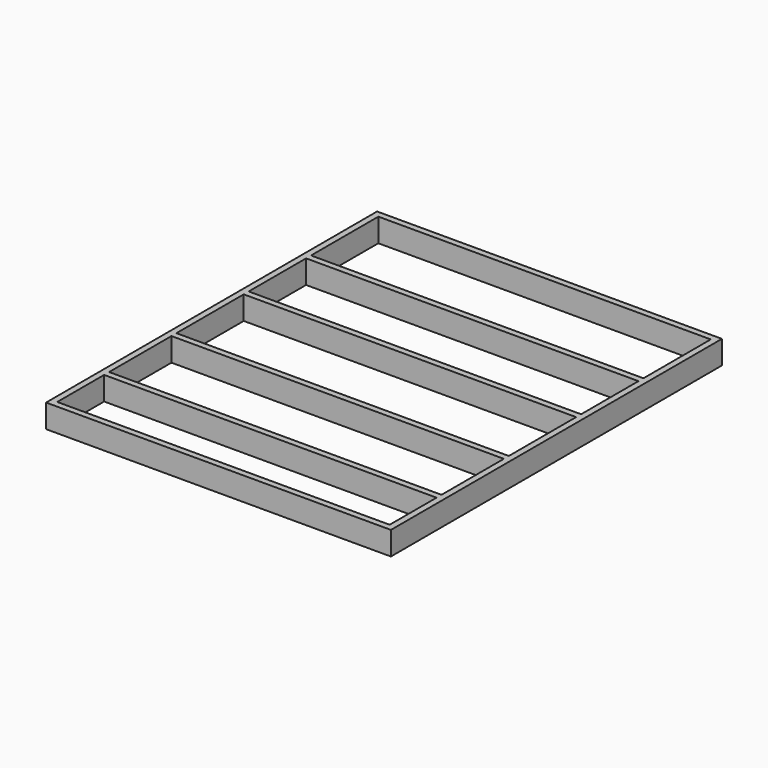
from build123d import *

# Parameters (mm, degrees)
F0_W     = 2500
F0_H     = 3000
F0_W_2   = 2410
F0_H_2   = 424.999999
F0_H_3   = 565.000044
F0_H_4   = 609.999957
F0_H_5   = 520.000043
F1_DEPTH = 170


with BuildPart() as f1:
    # F0 (on Top) → F1 (new body)
    with BuildSketch(Plane.XY):
        with Locations((1250, 1500)):
            Rectangle(F0_W, F0_H)
        with Locations((1250, 257.5)):
            Rectangle(F0_W_2, F0_H_2, mode=Mode.SUBTRACT)
        with Locations((1250, 797.500021)):
            Rectangle(F0_W_2, F0_H_3, mode=Mode.SUBTRACT)
        with Locations((1250, 1430.000022)):
            Rectangle(F0_W_2, F0_H_4, mode=Mode.SUBTRACT)
        with Locations((1250, 2040.000022)):
            Rectangle(F0_W_2, F0_H_5, mode=Mode.SUBTRACT)
        with Locations((1250, 2650.000022)):
            Rectangle(F0_W_2, F0_H_4, mode=Mode.SUBTRACT)
    extrude(amount=F1_DEPTH)


solid = f1.part
